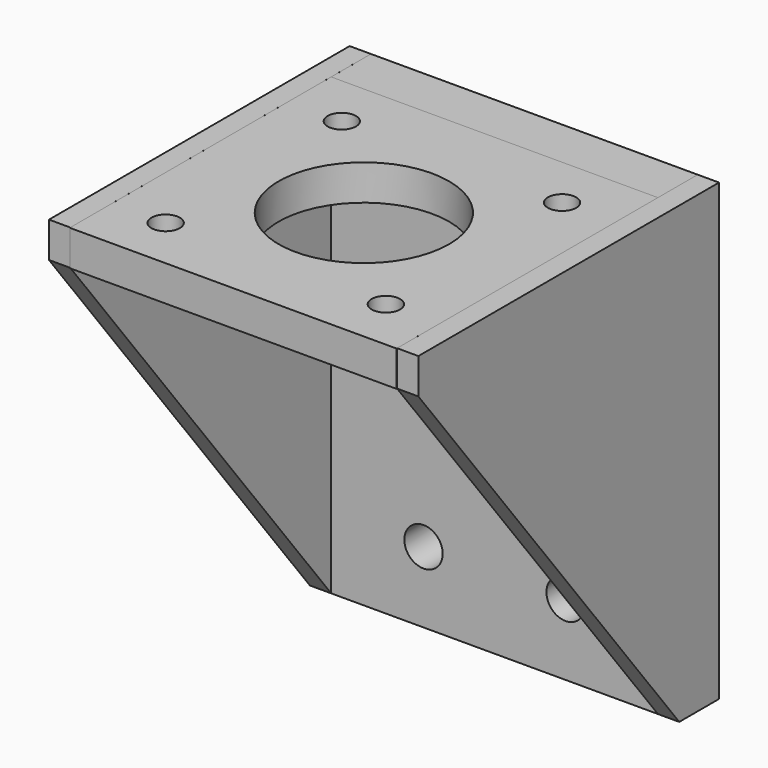
from build123d import *

# Parameters (mm, degrees)
SKETCH_W                                  = 46
SKETCH_H                                  = 46
SKETCH_R                                  = 2
SKETCH_R_2                                = 12
EXTRUDE_DEPTH                             = 5
SKETCH001_AS_DRAWN_W                      = 46
SKETCH001_AS_DRAWN_H                      = 64
SKETCH001_AS_DRAWN_R                      = 2.7
EXTRUDE001_DEPTH                          = 7
EXTRUDE001_ONTO_SKETCH001_ROLL_ANGLE      = 90
EXTRUDE001_ONTO_SKETCH001_PLACEMENT_ANGLE = 180
EXTRUDE002_DEPTH                          = 7
EXTRUDE002_ONTO_SKETCH001_ROLL_ANGLE      = 90
EXTRUDE002_ONTO_SKETCH001_PLACEMENT_ANGLE = 180
EXTRUDE003_DEPTH                          = 3
EXTRUDE004_DEPTH                          = 3
EXTRUDE005_DEPTH                          = 3


with BuildPart() as extrude_body:
    # Sketch → Extrude (new body)
    with BuildSketch(Plane.XY):
        with Locations((23, -23)):
            Rectangle(SKETCH_W, SKETCH_H)
        with Locations((7.5, -7.5)):
            Circle(SKETCH_R, mode=Mode.SUBTRACT)
        with Locations((7.5, -38.5)):
            Circle(SKETCH_R, mode=Mode.SUBTRACT)
        with Locations((38.5, -7.5)):
            Circle(SKETCH_R, mode=Mode.SUBTRACT)
        with Locations((38.5, -38.5)):
            Circle(SKETCH_R, mode=Mode.SUBTRACT)
        with Locations((23, -23)):
            Circle(SKETCH_R_2, mode=Mode.SUBTRACT)
    extrude(amount=EXTRUDE_DEPTH)


with BuildPart() as extrude001:
    # Sketch001 as drawn → Extrude001 (new)
    with BuildSketch(Plane.XY):
        with Locations((-23, -27)):
            Rectangle(SKETCH001_AS_DRAWN_W, SKETCH001_AS_DRAWN_H)
        with Locations((-33, -49)):
            Circle(SKETCH001_AS_DRAWN_R, mode=Mode.SUBTRACT)
        with Locations((-13, -49)):
            Circle(SKETCH001_AS_DRAWN_R, mode=Mode.SUBTRACT)
    extrude(amount=EXTRUDE001_DEPTH)


with BuildPart() as extrude001_1:
    # Extrude001 onto Sketch001 roll: moved
    add(extrude001.part.rotate(Axis((0, 0, 0), (1, 0, 0)), EXTRUDE001_ONTO_SKETCH001_ROLL_ANGLE))


with BuildPart() as extrude001_2:
    # Extrude001 onto Sketch001 placement: moved
    add(extrude001_1.part.rotate(Axis((0, 0, 0), (0, 0, 1)), EXTRUDE001_ONTO_SKETCH001_PLACEMENT_ANGLE))


with BuildPart() as extrude002:
    # Sketch001 as drawn → Extrude002 (new)
    with BuildSketch(Plane.XY):
        with Locations((-23, -27)):
            Rectangle(SKETCH001_AS_DRAWN_W, SKETCH001_AS_DRAWN_H)
        with Locations((-33, -49)):
            Circle(SKETCH001_AS_DRAWN_R, mode=Mode.SUBTRACT)
        with Locations((-13, -49)):
            Circle(SKETCH001_AS_DRAWN_R, mode=Mode.SUBTRACT)
    extrude(amount=EXTRUDE002_DEPTH)


with BuildPart() as extrude002_1:
    # Extrude002 onto Sketch001 roll: moved
    add(extrude002.part.rotate(Axis((0, 0, 0), (1, 0, 0)), EXTRUDE002_ONTO_SKETCH001_ROLL_ANGLE))


with BuildPart() as extrude002_2:
    # Extrude002 onto Sketch001 placement: moved
    add(extrude002_1.part.rotate(Axis((0, 0, 0), (0, 0, 1)), EXTRUDE002_ONTO_SKETCH001_PLACEMENT_ANGLE))


with BuildPart() as extrude003:
    # Sketch002 → Extrude003 (new body)
    with BuildSketch(Plane.YZ.offset(46)):
        Polygon((7, 5.000938), (7, -59), (0, -59), (-45.90527, 0), (-45.90527, 5.000938), align=None)
    extrude(amount=EXTRUDE003_DEPTH)


with BuildPart() as extrude004:
    # Sketch002 → Extrude004 (new body)
    with BuildSketch(Plane.YZ.offset(46)):
        Polygon((7, 5.000938), (7, -59), (0, -59), (-45.90527, 0), (-45.90527, 5.000938), align=None)
    extrude(amount=EXTRUDE004_DEPTH)


with BuildPart() as extrude005:
    # Sketch002 → Extrude005 (new body)
    with BuildSketch(Plane.YZ.offset(46)):
        Polygon((7, 5.000938), (7, -59), (0, -59), (-45.90527, 0), (-45.90527, 5.000938), align=None)
    extrude(amount=EXTRUDE005_DEPTH)


with BuildPart() as extrude005_1:
    # Extrude005 placement: moved
    add(extrude005.part.moved(Location((-49, 0, 0))))


solid = Compound([extrude_body.part, extrude001_2.part, extrude002_2.part, extrude003.part, extrude004.part, extrude005_1.part])
